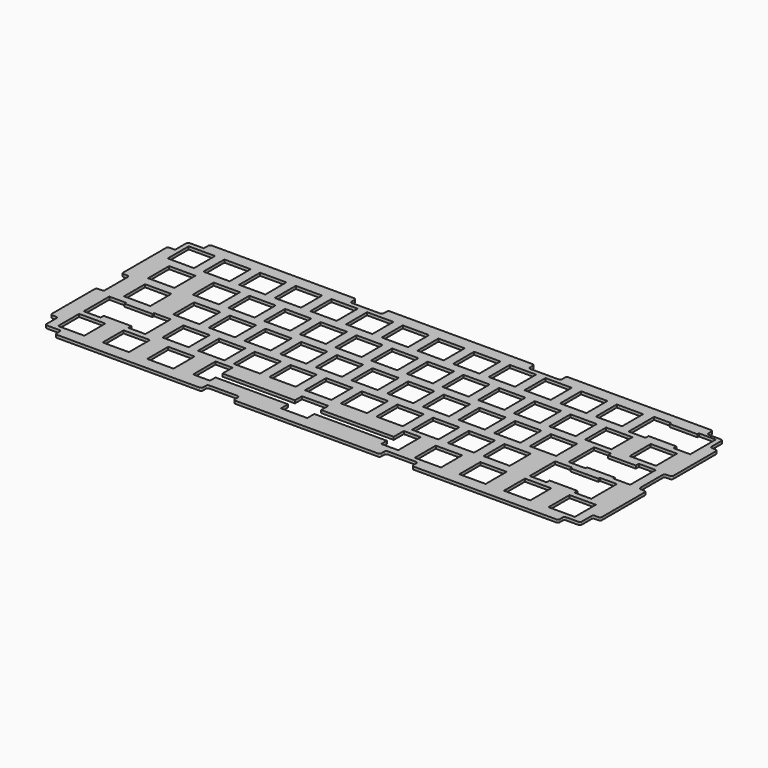
from build123d import *

# Parameters (mm, degrees)
SKETCH_W        = 293
SKETCH_H        = 103
PAD_DEPTH       = 1.5
SKETCH001_W     = 14
SKETCH001_H     = 14
POCKET_DEPTH    = 1.5
SKETCH002_W     = 14
SKETCH002_H     = 14
POCKET001_DEPTH = 1.5
SKETCH003_W     = 14
SKETCH003_H     = 14
POCKET002_DEPTH = 1.5
SKETCH004_W     = 14
SKETCH004_H     = 14
POCKET003_DEPTH = 1.5
SKETCH005_W     = 14
SKETCH005_H     = 14
POCKET004_DEPTH = 1.5
SKETCH007_W     = 9
SKETCH007_H     = 17
SKETCH007_H_2   = 15
POCKET005_DEPTH = 1.501
SKETCH008_W     = 0.405
SKETCH008_H     = 14
SKETCH008_W_2   = 38.62
SKETCH008_H_2   = 4.6
POCKET006_DEPTH = 1.501
SKETCH009_W     = 17
SKETCH009_H     = 4
SKETCH009_W_2   = 4
SKETCH009_H_2   = 17
POCKET007_DEPTH = 1.5
SKETCH010_W     = 12.5
SKETCH010_H     = 4
POCKET008_DEPTH = 1.5
SKETCH011_W     = 4
SKETCH011_H     = 13.5
POCKET009_DEPTH = 1.5
FILLET_R        = 1
FILLET001_R     = 1
FILLET002_R     = 1
FILLET003_R     = 1
FILLET004_R     = 1
FILLET005_R     = 1
FILLET006_R     = 1
FILLET007_R     = 1
FILLET008_R     = 1
FILLET009_R     = 1
FILLET010_R     = 1
FILLET011_R     = 1
FILLET012_R     = 1
FILLET013_R     = 1
FILLET014_R     = 1
FILLET015_R     = 1
FILLET016_R     = 1
FILLET017_R     = 1
FILLET018_R     = 1
FILLET019_R     = 1
FILLET020_R     = 1
FILLET021_R     = 1
FILLET022_R     = 1
FILLET023_R     = 1
FILLET024_R     = 1
FILLET025_R     = 1
FILLET026_R     = 1
FILLET027_R     = 1
FILLET028_R     = 1
FILLET029_R     = 1
FILLET030_R     = 1
FILLET031_R     = 1
FILLET032_R     = 1
FILLET033_R     = 1
FILLET034_R     = 1
FILLET035_R     = 1
FILLET036_R     = 1
FILLET037_R     = 1
FILLET038_R     = 1
FILLET039_R     = 1
FILLET040_R     = 1
FILLET041_R     = 1


with BuildPart() as part:
    # Sketch → Pad (new body)
    with BuildSketch(Plane.XY):
        Rectangle(SKETCH_W, SKETCH_H)
    extrude(amount=PAD_DEPTH)

    # Sketch001 (on Face6 of Pad) → Pocket (cut)
    with BuildSketch(Plane.XY.offset(1.5)):
        with Locations((-133, 38)):
            Rectangle(SKETCH001_W, SKETCH001_H)
        with Locations((-114, 38)):
            Rectangle(SKETCH001_W, SKETCH001_H)
        with Locations((-95, 38)):
            Rectangle(SKETCH001_W, SKETCH001_H)
        with Locations((-76, 38)):
            Rectangle(SKETCH001_W, SKETCH001_H)
        with Locations((-57, 38)):
            Rectangle(SKETCH001_W, SKETCH001_H)
        with Locations((-38, 38)):
            Rectangle(SKETCH001_W, SKETCH001_H)
        with Locations((-19, 38)):
            Rectangle(SKETCH001_W, SKETCH001_H)
        with Locations((0, 38)):
            Rectangle(SKETCH001_W, SKETCH001_H)
        with Locations((19, 38)):
            Rectangle(SKETCH001_W, SKETCH001_H)
        with Locations((38, 38)):
            Rectangle(SKETCH001_W, SKETCH001_H)
        with Locations((57, 38)):
            Rectangle(SKETCH001_W, SKETCH001_H)
        with Locations((76, 38)):
            Rectangle(SKETCH001_W, SKETCH001_H)
        with Locations((95, 38)):
            Rectangle(SKETCH001_W, SKETCH001_H)
        with Locations((123.5, 38)):
            Rectangle(SKETCH001_W, SKETCH001_H)
    extrude(amount=-POCKET_DEPTH, mode=Mode.SUBTRACT)

    # Sketch002 (on Face5 of Pocket) → Pocket001 (cut)
    with BuildSketch(Plane.XY.offset(1.5)):
        with Locations((-128.25, 19)):
            Rectangle(SKETCH002_W, SKETCH002_H)
        with Locations((-104.5, 19)):
            Rectangle(SKETCH002_W, SKETCH002_H)
        with Locations((-85.5, 19)):
            Rectangle(SKETCH002_W, SKETCH002_H)
        with Locations((-66.5, 19)):
            Rectangle(SKETCH002_W, SKETCH002_H)
        with Locations((-47.5, 19)):
            Rectangle(SKETCH002_W, SKETCH002_H)
        with Locations((-28.5, 19)):
            Rectangle(SKETCH002_W, SKETCH002_H)
        with Locations((-9.5, 19)):
            Rectangle(SKETCH002_W, SKETCH002_H)
        with Locations((9.5, 19)):
            Rectangle(SKETCH002_W, SKETCH002_H)
        with Locations((28.5, 19)):
            Rectangle(SKETCH002_W, SKETCH002_H)
        with Locations((47.5, 19)):
            Rectangle(SKETCH002_W, SKETCH002_H)
        with Locations((66.5, 19)):
            Rectangle(SKETCH002_W, SKETCH002_H)
        with Locations((85.5, 19)):
            Rectangle(SKETCH002_W, SKETCH002_H)
        with Locations((104.5, 19)):
            Rectangle(SKETCH002_W, SKETCH002_H)
        with Locations((128.25, 19)):
            Rectangle(SKETCH002_W, SKETCH002_H)
    extrude(amount=-POCKET001_DEPTH, mode=Mode.SUBTRACT)

    # Sketch003 (on Face5 of Pocket001) → Pocket002 (cut)
    with BuildSketch(Plane.XY.offset(1.5)):
        with Locations((-125.87, 0)):
            Rectangle(SKETCH003_W, SKETCH003_H)
        with Locations((-99.74, 0)):
            Rectangle(SKETCH003_W, SKETCH003_H)
        with Locations((-80.74, 0)):
            Rectangle(SKETCH003_W, SKETCH003_H)
        with Locations((-61.74, 0)):
            Rectangle(SKETCH003_W, SKETCH003_H)
        with Locations((-42.74, 0)):
            Rectangle(SKETCH003_W, SKETCH003_H)
        with Locations((-23.74, 0)):
            Rectangle(SKETCH003_W, SKETCH003_H)
        with Locations((-4.74, 0)):
            Rectangle(SKETCH003_W, SKETCH003_H)
        with Locations((14.26, 0)):
            Rectangle(SKETCH003_W, SKETCH003_H)
        with Locations((33.26, 0)):
            Rectangle(SKETCH003_W, SKETCH003_H)
        with Locations((52.26, 0)):
            Rectangle(SKETCH003_W, SKETCH003_H)
        with Locations((71.26, 0)):
            Rectangle(SKETCH003_W, SKETCH003_H)
        with Locations((90.26, 0)):
            Rectangle(SKETCH003_W, SKETCH003_H)
        with Locations((121.13, 0)):
            Rectangle(SKETCH003_W, SKETCH003_H)
    extrude(amount=-POCKET002_DEPTH, mode=Mode.SUBTRACT)

    # Sketch004 (on Face5 of Pocket002) → Pocket003 (cut)
    with BuildSketch(Plane.XY.offset(1.5)):
        with Locations((-121.12, -19)):
            Rectangle(SKETCH004_W, SKETCH004_H)
        with Locations((-90.24, -19)):
            Rectangle(SKETCH004_W, SKETCH004_H)
        with Locations((-71.24, -19)):
            Rectangle(SKETCH004_W, SKETCH004_H)
        with Locations((-52.24, -19)):
            Rectangle(SKETCH004_W, SKETCH004_H)
        with Locations((-33.24, -19)):
            Rectangle(SKETCH004_W, SKETCH004_H)
        with Locations((-14.24, -19)):
            Rectangle(SKETCH004_W, SKETCH004_H)
        with Locations((4.76, -19)):
            Rectangle(SKETCH004_W, SKETCH004_H)
        with Locations((23.76, -19)):
            Rectangle(SKETCH004_W, SKETCH004_H)
        with Locations((42.76, -19)):
            Rectangle(SKETCH004_W, SKETCH004_H)
        with Locations((61.76, -19)):
            Rectangle(SKETCH004_W, SKETCH004_H)
        with Locations((80.76, -19)):
            Rectangle(SKETCH004_W, SKETCH004_H)
        with Locations((116.38, -19)):
            Rectangle(SKETCH004_W, SKETCH004_H)
    extrude(amount=-POCKET003_DEPTH, mode=Mode.SUBTRACT)

    # Sketch005 (on Face5 of Pocket003) → Pocket004 (cut)
    with BuildSketch(Plane.XY.offset(1.5)):
        with Locations((-130.62, -38)):
            Rectangle(SKETCH005_W, SKETCH005_H)
        with Locations((-106.87, -38)):
            Rectangle(SKETCH005_W, SKETCH005_H)
        with Locations((-83.12, -38)):
            Rectangle(SKETCH005_W, SKETCH005_H)
        with Locations((-11.87, -38)):
            Rectangle(SKETCH005_W, SKETCH005_H)
        with Locations((59.38, -38)):
            Rectangle(SKETCH005_W, SKETCH005_H)
        with Locations((83.13, -38)):
            Rectangle(SKETCH005_W, SKETCH005_H)
        with Locations((106.88, -38)):
            Rectangle(SKETCH005_W, SKETCH005_H)
        with Locations((130.63, -38)):
            Rectangle(SKETCH005_W, SKETCH005_H)
    extrude(amount=-POCKET004_DEPTH, mode=Mode.SUBTRACT)

    # Sketch007 (on Face5 of Pocket004) → Pocket005 (cut, through all)
    with BuildSketch(Plane.XY.offset(1.5)):
        with Locations((-133.025, -19.5)):
            Rectangle(SKETCH007_W, SKETCH007_H)
        with Locations((-109.215, -19.5)):
            Rectangle(SKETCH007_W, SKETCH007_H)
        with Locations((-61.99, -36.5)):
            Rectangle(SKETCH007_W, SKETCH007_H_2)
        with Locations((38.25, -36.5)):
            Rectangle(SKETCH007_W, SKETCH007_H_2)
        with Locations((128.285, -19.5)):
            Rectangle(SKETCH007_W, SKETCH007_H)
        with Locations((104.475, -19.5)):
            Rectangle(SKETCH007_W, SKETCH007_H)
        with Locations((109.225, 0.5)):
            Rectangle(SKETCH007_W, SKETCH007_H)
        with Locations((133.035, 0.5)):
            Rectangle(SKETCH007_W, SKETCH007_H)
        with Locations((111.595, 37.5)):
            Rectangle(SKETCH007_W, SKETCH007_H)
        with Locations((135.405, 37.5)):
            Rectangle(SKETCH007_W, SKETCH007_H)
    extrude(amount=-POCKET005_DEPTH, mode=Mode.SUBTRACT)

    # Sketch008 (on Face5 of Pocket005) → Pocket006 (cut, through all)
    with BuildSketch(Plane.XY.offset(1.5)):
        with Locations((-128.3225, -19)):
            Rectangle(SKETCH008_W, SKETCH008_H)
        with Locations((-113.9175, -19)):
            Rectangle(SKETCH008_W, SKETCH008_H)
        with Locations((109.1775, -19)):
            Rectangle(SKETCH008_W, SKETCH008_H)
        with Locations((123.5825, -19)):
            Rectangle(SKETCH008_W, SKETCH008_H)
        with Locations((113.9275, 0)):
            Rectangle(SKETCH008_W, SKETCH008_H)
        with Locations((128.3325, 0)):
            Rectangle(SKETCH008_W, SKETCH008_H)
        with Locations((116.2975, 38)):
            Rectangle(SKETCH008_W, SKETCH008_H)
        with Locations((130.7025, 38)):
            Rectangle(SKETCH008_W, SKETCH008_H)
        with Locations((-38.18, -38)):
            Rectangle(SKETCH008_W_2, SKETCH008_H_2)
        with Locations((14.44, -38)):
            Rectangle(SKETCH008_W_2, SKETCH008_H_2)
    extrude(amount=-POCKET006_DEPTH, mode=Mode.SUBTRACT)

    # Sketch009 (on Face5 of Pocket006) → Pocket007 (cut)
    with BuildSketch(Plane.XY.offset(1.5)):
        with Locations((-47.5, 49.5)):
            Rectangle(SKETCH009_W, SKETCH009_H)
        with Locations((47.5, 49.5)):
            Rectangle(SKETCH009_W, SKETCH009_H)
        with Locations((47.5, -49.5)):
            Rectangle(SKETCH009_W, SKETCH009_H)
        with Locations((-47.5, -49.5)):
            Rectangle(SKETCH009_W, SKETCH009_H)
        with Locations((144.5, 0)):
            Rectangle(SKETCH009_W_2, SKETCH009_H_2)
        with Locations((-144.5, 0)):
            Rectangle(SKETCH009_W_2, SKETCH009_H_2)
    extrude(amount=-POCKET007_DEPTH, mode=Mode.SUBTRACT)

    # Sketch010 (on Face4 of Pocket007) → Pocket008 (cut)
    with BuildSketch(Plane.XY.offset(1.5)):
        with Locations((-140.25, 49.5)):
            Rectangle(SKETCH010_W, SKETCH010_H)
        with Locations((140.25, 49.5)):
            Rectangle(SKETCH010_W, SKETCH010_H)
        with Locations((140.25, -49.5)):
            Rectangle(SKETCH010_W, SKETCH010_H)
        with Locations((-140.25, -49.5)):
            Rectangle(SKETCH010_W, SKETCH010_H)
    extrude(amount=-POCKET008_DEPTH, mode=Mode.SUBTRACT)

    # Sketch011 (on Face4 of Pocket008) → Pocket009 (cut)
    with BuildSketch(Plane.XY.offset(1.5)):
        with Locations((-144.5, 45.75)):
            Rectangle(SKETCH011_W, SKETCH011_H)
        with Locations((-144.5, -45.75)):
            Rectangle(SKETCH011_W, SKETCH011_H)
        with Locations((144.5, -45.75)):
            Rectangle(SKETCH011_W, SKETCH011_H)
        with Locations((144.5, 45.75)):
            Rectangle(SKETCH011_W, SKETCH011_H)
    extrude(amount=-POCKET009_DEPTH, mode=Mode.SUBTRACT)

    # Fillet
    fillet_edges = [part.edges().sort_by_distance(p)[0] for p in [
        (-134, 51.5, 0.75),
    ]]
    fillet(fillet_edges, radius=FILLET_R)

    # Fillet001
    fillet001_edges = [part.edges().sort_by_distance(p)[0] for p in [
        (-142.5, 47.5, 0.75),
    ]]
    fillet(fillet001_edges, radius=FILLET001_R)

    # Fillet002
    fillet002_edges = [part.edges().sort_by_distance(p)[0] for p in [
        (-146.5, 39, 0.75),
    ]]
    fillet(fillet002_edges, radius=FILLET002_R)

    # Fillet003
    fillet003_edges = [part.edges().sort_by_distance(p)[0] for p in [
        (-146.5, 8.5, 0.75),
    ]]
    fillet(fillet003_edges, radius=FILLET003_R)

    # Fillet004
    fillet004_edges = [part.edges().sort_by_distance(p)[0] for p in [
        (-142.5, 8.5, 0.75),
    ]]
    fillet(fillet004_edges, radius=FILLET004_R)

    # Fillet005
    fillet005_edges = [part.edges().sort_by_distance(p)[0] for p in [
        (-142.5, -8.5, 0.75),
    ]]
    fillet(fillet005_edges, radius=FILLET005_R)

    # Fillet006
    fillet006_edges = [part.edges().sort_by_distance(p)[0] for p in [
        (-146.5, -8.5, 0.75),
    ]]
    fillet(fillet006_edges, radius=FILLET006_R)

    # Fillet007
    fillet007_edges = [part.edges().sort_by_distance(p)[0] for p in [
        (-146.5, -39, 0.75),
    ]]
    fillet(fillet007_edges, radius=FILLET007_R)

    # Fillet008
    fillet008_edges = [part.edges().sort_by_distance(p)[0] for p in [
        (-142.5, -39, 0.75),
    ]]
    fillet(fillet008_edges, radius=FILLET008_R)

    # Fillet009
    fillet009_edges = [part.edges().sort_by_distance(p)[0] for p in [
        (-142.5, -47.5, 0.75),
    ]]
    fillet(fillet009_edges, radius=FILLET009_R)

    # Fillet010
    fillet010_edges = [part.edges().sort_by_distance(p)[0] for p in [
        (-134, -47.5, 0.75),
    ]]
    fillet(fillet010_edges, radius=FILLET010_R)

    # Fillet011
    fillet011_edges = [part.edges().sort_by_distance(p)[0] for p in [
        (-134, -51.5, 0.75),
    ]]
    fillet(fillet011_edges, radius=FILLET011_R)

    # Fillet012
    fillet012_edges = [part.edges().sort_by_distance(p)[0] for p in [
        (-56, -51.5, 0.75),
    ]]
    fillet(fillet012_edges, radius=FILLET012_R)

    # Fillet013
    fillet013_edges = [part.edges().sort_by_distance(p)[0] for p in [
        (-56, -47.5, 0.75),
    ]]
    fillet(fillet013_edges, radius=FILLET013_R)

    # Fillet014
    fillet014_edges = [part.edges().sort_by_distance(p)[0] for p in [
        (-39, -47.5, 0.75),
    ]]
    fillet(fillet014_edges, radius=FILLET014_R)

    # Fillet015
    fillet015_edges = [part.edges().sort_by_distance(p)[0] for p in [
        (-39, -51.5, 0.75),
    ]]
    fillet(fillet015_edges, radius=FILLET015_R)

    # Fillet016
    fillet016_edges = [part.edges().sort_by_distance(p)[0] for p in [
        (39, -51.5, 0.75),
    ]]
    fillet(fillet016_edges, radius=FILLET016_R)

    # Fillet017
    fillet017_edges = [part.edges().sort_by_distance(p)[0] for p in [
        (39, -47.5, 0.75),
    ]]
    fillet(fillet017_edges, radius=FILLET017_R)

    # Fillet018
    fillet018_edges = [part.edges().sort_by_distance(p)[0] for p in [
        (56, -47.5, 0.75),
    ]]
    fillet(fillet018_edges, radius=FILLET018_R)

    # Fillet019
    fillet019_edges = [part.edges().sort_by_distance(p)[0] for p in [
        (56, -51.5, 0.75),
    ]]
    fillet(fillet019_edges, radius=FILLET019_R)

    # Fillet020
    fillet020_edges = [part.edges().sort_by_distance(p)[0] for p in [
        (134, -51.5, 0.75),
    ]]
    fillet(fillet020_edges, radius=FILLET020_R)

    # Fillet021
    fillet021_edges = [part.edges().sort_by_distance(p)[0] for p in [
        (134, -47.5, 0.75),
    ]]
    fillet(fillet021_edges, radius=FILLET021_R)

    # Fillet022
    fillet022_edges = [part.edges().sort_by_distance(p)[0] for p in [
        (142.5, -47.5, 0.75),
    ]]
    fillet(fillet022_edges, radius=FILLET022_R)

    # Fillet023
    fillet023_edges = [part.edges().sort_by_distance(p)[0] for p in [
        (142.5, -39, 0.75),
    ]]
    fillet(fillet023_edges, radius=FILLET023_R)

    # Fillet024
    fillet024_edges = [part.edges().sort_by_distance(p)[0] for p in [
        (146.5, -39, 0.75),
    ]]
    fillet(fillet024_edges, radius=FILLET024_R)

    # Fillet025
    fillet025_edges = [part.edges().sort_by_distance(p)[0] for p in [
        (146.5, -8.5, 0.75),
    ]]
    fillet(fillet025_edges, radius=FILLET025_R)

    # Fillet026
    fillet026_edges = [part.edges().sort_by_distance(p)[0] for p in [
        (142.5, -8.5, 0.75),
    ]]
    fillet(fillet026_edges, radius=FILLET026_R)

    # Fillet027
    fillet027_edges = [part.edges().sort_by_distance(p)[0] for p in [
        (142.5, 8.5, 0.75),
    ]]
    fillet(fillet027_edges, radius=FILLET027_R)

    # Fillet028
    fillet028_edges = [part.edges().sort_by_distance(p)[0] for p in [
        (146.5, 8.5, 0.75),
    ]]
    fillet(fillet028_edges, radius=FILLET028_R)

    # Fillet029
    fillet029_edges = [part.edges().sort_by_distance(p)[0] for p in [
        (146.5, 39, 0.75),
    ]]
    fillet(fillet029_edges, radius=FILLET029_R)

    # Fillet030
    fillet030_edges = [part.edges().sort_by_distance(p)[0] for p in [
        (142.5, 39, 0.75),
    ]]
    fillet(fillet030_edges, radius=FILLET030_R)

    # Fillet031
    fillet031_edges = [part.edges().sort_by_distance(p)[0] for p in [
        (142.5, 47.5, 0.75),
    ]]
    fillet(fillet031_edges, radius=FILLET031_R)

    # Fillet032
    fillet032_edges = [part.edges().sort_by_distance(p)[0] for p in [
        (134, 47.5, 0.75),
    ]]
    fillet(fillet032_edges, radius=FILLET032_R)

    # Fillet033
    fillet033_edges = [part.edges().sort_by_distance(p)[0] for p in [
        (134, 51.5, 0.75),
    ]]
    fillet(fillet033_edges, radius=FILLET033_R)

    # Fillet034
    fillet034_edges = [part.edges().sort_by_distance(p)[0] for p in [
        (56, 51.5, 0.75),
    ]]
    fillet(fillet034_edges, radius=FILLET034_R)

    # Fillet035
    fillet035_edges = [part.edges().sort_by_distance(p)[0] for p in [
        (56, 47.5, 0.75),
    ]]
    fillet(fillet035_edges, radius=FILLET035_R)

    # Fillet036
    fillet036_edges = [part.edges().sort_by_distance(p)[0] for p in [
        (39, 47.5, 0.75),
    ]]
    fillet(fillet036_edges, radius=FILLET036_R)

    # Fillet037
    fillet037_edges = [part.edges().sort_by_distance(p)[0] for p in [
        (39, 51.5, 0.75),
    ]]
    fillet(fillet037_edges, radius=FILLET037_R)

    # Fillet038
    fillet038_edges = [part.edges().sort_by_distance(p)[0] for p in [
        (-39, 51.5, 0.75),
    ]]
    fillet(fillet038_edges, radius=FILLET038_R)

    # Fillet039
    fillet039_edges = [part.edges().sort_by_distance(p)[0] for p in [
        (-39, 47.5, 0.75),
    ]]
    fillet(fillet039_edges, radius=FILLET039_R)

    # Fillet040
    fillet040_edges = [part.edges().sort_by_distance(p)[0] for p in [
        (-56, 47.5, 0.75),
    ]]
    fillet(fillet040_edges, radius=FILLET040_R)

    # Fillet041
    fillet041_edges = [part.edges().sort_by_distance(p)[0] for p in [
        (-56, 51.5, 0.75),
    ]]
    fillet(fillet041_edges, radius=FILLET041_R)


solid = part.part
